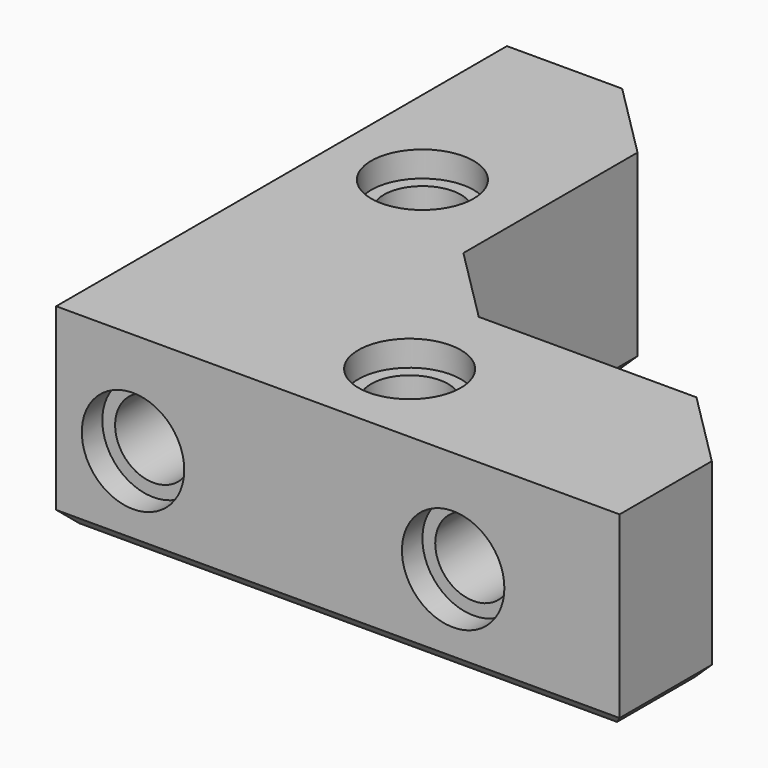
from build123d import *

# Parameters (mm, degrees)
PAD_DEPTH           = 15
HOLE_D              = 6
HOLE_DEPTH          = 25
HOLE_CBORE_D        = 8
HOLE_CBORE_DEPTH    = 2
HOLE001_D           = 6
HOLE001_DEPTH       = 13
HOLE001_CBORE_D     = 8
HOLE001_CBORE_DEPTH = 2
HOLE002_D           = 6
HOLE002_DEPTH       = 13
HOLE002_CBORE_D     = 8
HOLE002_CBORE_DEPTH = 2
CHAMFER_SIZE        = 1


with BuildPart() as part:
    # Sketch → Pad (new body)
    with BuildSketch(Plane.XY):
        Polygon((0, 44), (0, 0), (44, 0), (44, 9), (38, 15), (21, 15), (15, 21), (15, 38), (9, 44), align=None)
    extrude(amount=PAD_DEPTH)

    # Hole
    with Locations(Plane.XY.offset(15)):
        with Locations((22, 7), (7, 27)):
            CounterBoreHole(HOLE_D / 2, HOLE_CBORE_D / 2, HOLE_CBORE_DEPTH, depth=HOLE_DEPTH)

    # Hole001
    with Locations(Plane.XZ):
        with Locations((6, 7), (31, 7)):
            CounterBoreHole(HOLE001_D / 2, HOLE001_CBORE_D / 2, HOLE001_CBORE_DEPTH, depth=HOLE001_DEPTH)

    # Hole002
    with Locations(Plane(origin=(0, 0, 0), x_dir=(0, -1, 0), z_dir=(-1, 0, 0))):
        with Locations((-14, 7), (-39, 7)):
            CounterBoreHole(HOLE002_D / 2, HOLE002_CBORE_D / 2, HOLE002_CBORE_DEPTH, depth=HOLE002_DEPTH)

    # Chamfer
    chamfer_edges = [part.edges().sort_by_distance(p)[0] for p in [
        (12, 41, 0),
        (15, 29.5, 0),
        (4.5, 44, 0),
        (18, 18, 0),
        (0, 22, 0),
        (29.5, 15, 0),
        (22, 0, 0),
        (41, 12, 0),
        (44, 4.5, 0),
        (4, 27, 0),
        (19, 7, 0),
    ]]
    chamfer(chamfer_edges, length=CHAMFER_SIZE)


solid = part.part
